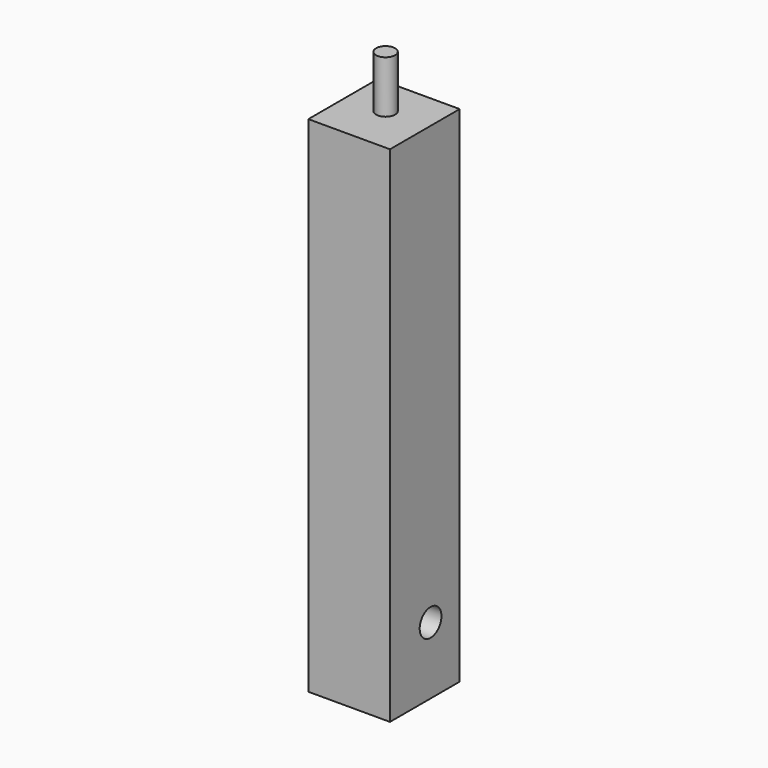
from build123d import *

# Parameters (mm, degrees)
F0_W     = 8.112996
F0_H     = 8.656824
F1_DEPTH = 50.1
F2_R     = 1.353874
F3_DEPTH = 25
F4_R     = 0.945263
F5_DEPTH = 5.2


with BuildPart() as f1:
    # F0 (on Top) → F1 (new body)
    with BuildSketch(Plane.XY):
        with Locations((4.056498, -4.328412)):
            Rectangle(F0_W, F0_H)
    extrude(amount=F1_DEPTH)

    # F2 (on face) → F3 (cut)
    with BuildSketch(Plane.YZ.offset(8.112996)):
        with Locations((-3.613207, 6.657105)):
            Circle(F2_R)
    extrude(amount=-F3_DEPTH, mode=Mode.SUBTRACT)

    # F4 (on face) → F5 (join)
    with BuildSketch(Plane.XY.offset(50.1)):
        with Locations((3.843431, -3.864297)):
            Circle(F4_R)
    extrude(amount=F5_DEPTH)


solid = f1.part
